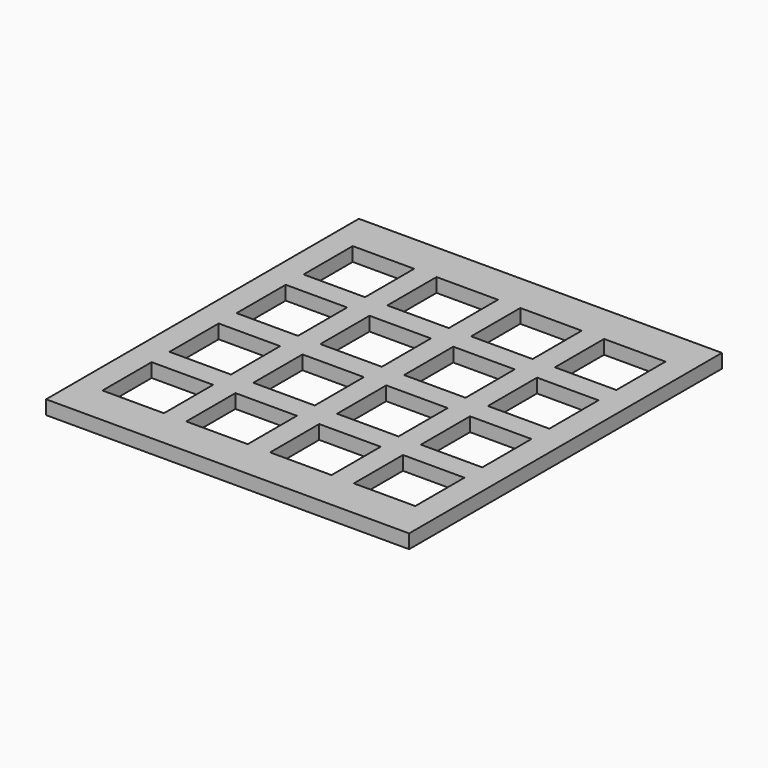
from build123d import *

# Parameters (mm, degrees)
F0_W     = 65
F0_H     = 70
F0_W_2   = 11
F0_H_2   = 11
F1_DEPTH = 2.5


with BuildPart() as f1:
    # F0 (on Top) → F1 (new body)
    with BuildSketch(Plane.XY):
        with Locations((-12.392649, -0.425882)):
            Rectangle(F0_W, F0_H)
        with Locations((-34.892649, -22.925882)):
            Rectangle(F0_W_2, F0_H_2, mode=Mode.SUBTRACT)
        with Locations((-19.892649, -22.925882)):
            Rectangle(F0_W_2, F0_H_2, mode=Mode.SUBTRACT)
        with Locations((-34.892649, -7.925882)):
            Rectangle(F0_W_2, F0_H_2, mode=Mode.SUBTRACT)
        with Locations((-19.892649, -7.925882)):
            Rectangle(F0_W_2, F0_H_2, mode=Mode.SUBTRACT)
        with Locations((-4.892649, -22.925882)):
            Rectangle(F0_W_2, F0_H_2, mode=Mode.SUBTRACT)
        with Locations((10.107351, -22.925882)):
            Rectangle(F0_W_2, F0_H_2, mode=Mode.SUBTRACT)
        with Locations((-4.892649, -7.925882)):
            Rectangle(F0_W_2, F0_H_2, mode=Mode.SUBTRACT)
        with Locations((10.107351, -7.925882)):
            Rectangle(F0_W_2, F0_H_2, mode=Mode.SUBTRACT)
        with Locations((-34.892649, 7.074118)):
            Rectangle(F0_W_2, F0_H_2, mode=Mode.SUBTRACT)
        with Locations((-19.892649, 7.074118)):
            Rectangle(F0_W_2, F0_H_2, mode=Mode.SUBTRACT)
        with Locations((-34.892649, 22.074118)):
            Rectangle(F0_W_2, F0_H_2, mode=Mode.SUBTRACT)
        with Locations((-19.892649, 22.074118)):
            Rectangle(F0_W_2, F0_H_2, mode=Mode.SUBTRACT)
        with Locations((-4.892649, 7.074118)):
            Rectangle(F0_W_2, F0_H_2, mode=Mode.SUBTRACT)
        with Locations((10.107351, 7.074118)):
            Rectangle(F0_W_2, F0_H_2, mode=Mode.SUBTRACT)
        with Locations((-4.892649, 22.074118)):
            Rectangle(F0_W_2, F0_H_2, mode=Mode.SUBTRACT)
        with Locations((10.107351, 22.074118)):
            Rectangle(F0_W_2, F0_H_2, mode=Mode.SUBTRACT)
    extrude(amount=F1_DEPTH)


solid = f1.part
